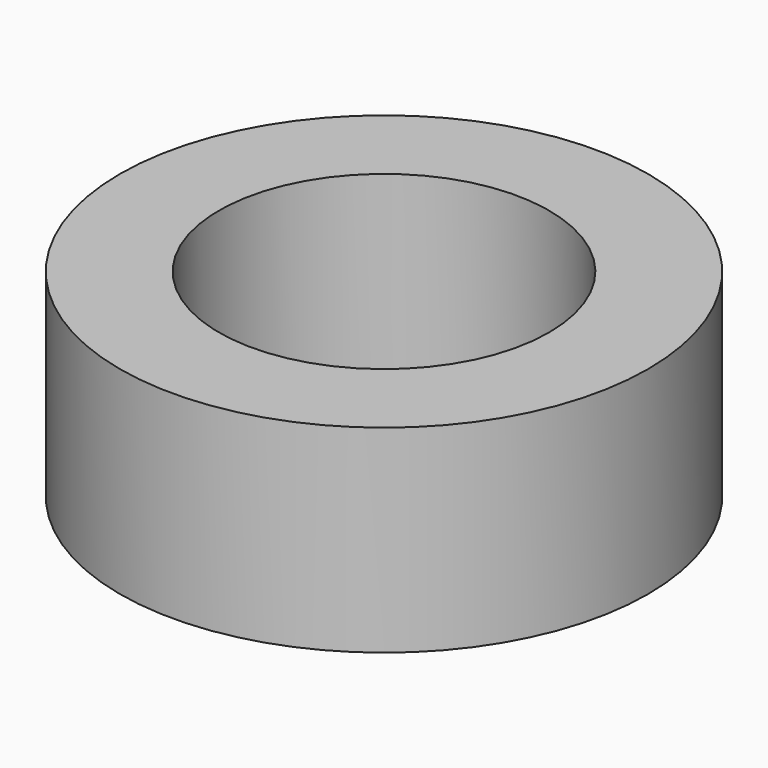
from build123d import *

# Parameters (mm, degrees)
CYLINDER_R        = 8
CYLINDER_DEPTH    = 6
CYLINDER001_R     = 5
CYLINDER001_DEPTH = 10


with BuildPart() as part:
    # Cylinder → Cylinder (join)
    with BuildSketch(Plane.XY):
        Circle(CYLINDER_R)
    extrude(amount=CYLINDER_DEPTH)

    # Cylinder001 → Cylinder001 (cut)
    with BuildSketch(Plane.XY):
        Circle(CYLINDER001_R)
    extrude(amount=CYLINDER001_DEPTH, mode=Mode.SUBTRACT)


solid = part.part
